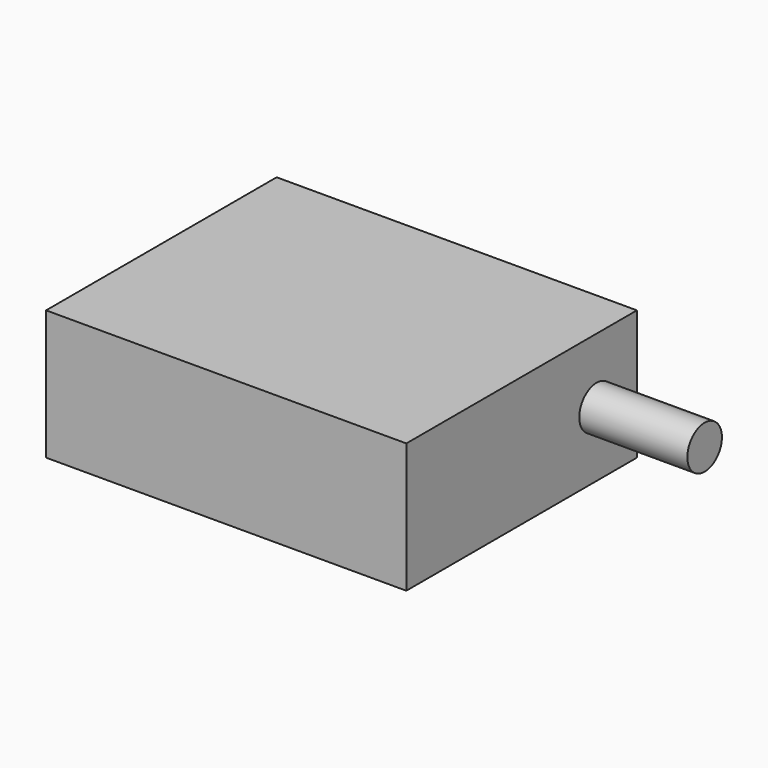
from build123d import *

# Parameters (mm, degrees)
SKETCH_W     = 50
SKETCH_H     = 40
PAD_DEPTH    = 18
SKETCH001_R  = 3
PAD001_DEPTH = 15


with BuildPart() as part:
    # Sketch → Pad (new body)
    with BuildSketch(Plane.XY):
        with Locations((25, 20)):
            Rectangle(SKETCH_W, SKETCH_H)
    extrude(amount=PAD_DEPTH)

    # Sketch001 (on Face2 of Pad) → Pad001 (join)
    with BuildSketch(Plane.YZ.offset(50)):
        with Locations((33, 9)):
            Circle(SKETCH001_R)
    extrude(amount=PAD001_DEPTH)


solid = part.part
